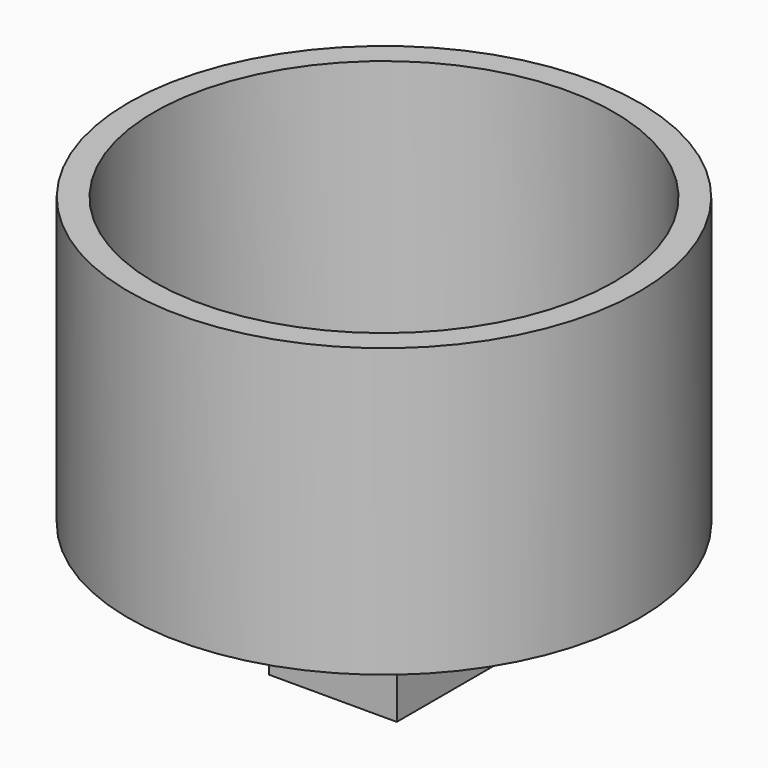
from build123d import *

# Parameters (mm, degrees)
F0_R     = 25.4
F1_DEPTH = 28.575
F2_R     = 22.86
F3_DEPTH = 25.4
F4_W     = 12.7
F4_H     = 12.7
F5_DEPTH = 12.7


with BuildPart() as f1:
    # F0 (on Top) → F1 (new body)
    with BuildSketch(Plane.XY):
        Circle(F0_R)
    extrude(amount=F1_DEPTH)

    # F2 (on face) → F3 (cut)
    with BuildSketch(Plane.XY.offset(28.575)):
        Circle(F2_R)
    extrude(amount=-F3_DEPTH, mode=Mode.SUBTRACT)

    # F4 (on face) → F5 (join)
    with BuildSketch(Plane(origin=(0, 0, 0), x_dir=(1, 0, 0), z_dir=(0, 0, -1))):
        Rectangle(F4_W, F4_H)
    extrude(amount=F5_DEPTH)


solid = f1.part
